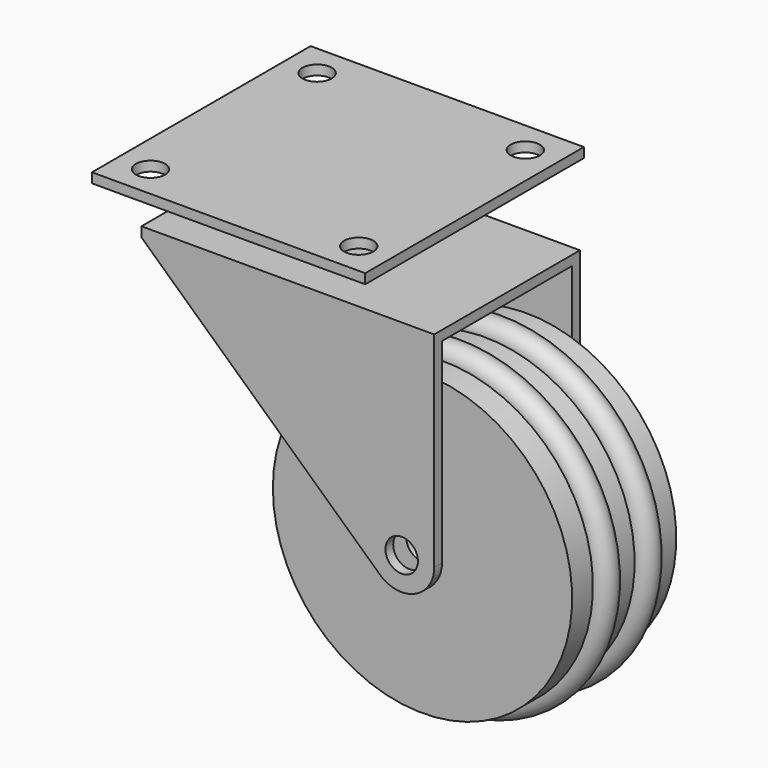
from build123d import *

# Parameters (mm, degrees)
F3_R      = 2.5
F4_DEPTH  = 1.5
F6_W      = 45
F6_H      = 28
F7_DEPTH  = 1.5
F8_R      = 2.5
F9_DEPTH  = 1.5
F10_R     = 2.5
F11_DEPTH = 3
F12_R     = 5
F13_DEPTH = 9.5
F14_W     = 42
F14_H     = 42
F14_R     = 2.25
F15_DEPTH = 1.5


with BuildPart() as f1:
    # F0 (on Top) → F1 (revolve)
    with BuildSketch(Plane.XY):
        with BuildLine():
            Line((-2.5, 10), (-23, 10))
            Line((-23, 10), (-23, 6))
            ThreePointArc((-23, 6), (-25, 4), (-23, 2))
            Line((-23, 2), (-23, -2))
            ThreePointArc((-23, -2), (-25, -4), (-23, -6))
            Line((-23, -6), (-23, -10))
            Line((-23, -10), (-2.5, -10))
            Line((-2.5, -10), (-2.5, 10))
        make_face()
    revolve(axis=Axis((0, 0, 0), (0, -1, 0)))


with BuildPart() as f4:
    # F3 (on offset) → F4 (new body)
    with BuildSketch(Plane(origin=(0, 12.5, 0), x_dir=(-1, 0, 0), z_dir=(0, 1, 0))):
        with BuildLine():
            Line((-5, 30), (-5, 0))
            ThreePointArc((-5, 0), (-2.009377, -4.578472), (3.384962, -3.67995))
            Line((3.384962, -3.67995), (40, 30))
            Line((40, 30), (-5, 30))
        make_face()
        Circle(F3_R, mode=Mode.SUBTRACT)
    extrude(amount=F4_DEPTH)



with BuildPart() as f5_1:
    # F5: instance of F4
    add(f4.part.mirror(Plane.XZ))


with BuildPart() as f4_1:
    add(f4.part)

    add(f5_1.part)  # F7 merges F5_1
    # F6 (on face) → F7 (join)
    with BuildSketch(Plane.XY.offset(30)):
        with Locations((-17.5, 0)):
            Rectangle(F6_W, F6_H)
    extrude(amount=F7_DEPTH)

    # F8 (on face) → F9 (cut)
    with BuildSketch(Plane.XY.offset(31.5)):
        with Locations((-21, 0)):
            Circle(F8_R)
    extrude(amount=-F9_DEPTH, mode=Mode.SUBTRACT)



with BuildPart() as f11:
    # F10 (on face) → F11 (new body)
    with BuildSketch(Plane.XY.offset(31.5)):
        with Locations((-21, 0)):
            Circle(F10_R)
    extrude(amount=-F11_DEPTH)


with BuildPart() as f4_2:
    add(f4_1.part)

    add(f11.part)  # F13 merges F11
    # F12 (on face) → F13 (join)
    with BuildSketch(Plane.XY.offset(31.5)):
        with Locations((-21, 0)):
            Circle(F12_R)
    extrude(amount=F13_DEPTH)

    # F14 (on face) → F15 (join)
    with BuildSketch(Plane.XY.offset(41)):
        with Locations((-21, 0)):
            Rectangle(F14_W, F14_H)
        with Locations((-37, -16)):
            Circle(F14_R, mode=Mode.SUBTRACT)
        with Locations((-5, -16)):
            Circle(F14_R, mode=Mode.SUBTRACT)
        with Locations((-37, 16)):
            Circle(F14_R, mode=Mode.SUBTRACT)
        with Locations((-5, 16)):
            Circle(F14_R, mode=Mode.SUBTRACT)
    extrude(amount=-F15_DEPTH)


solid = Compound([f1.part, f4_2.part])
